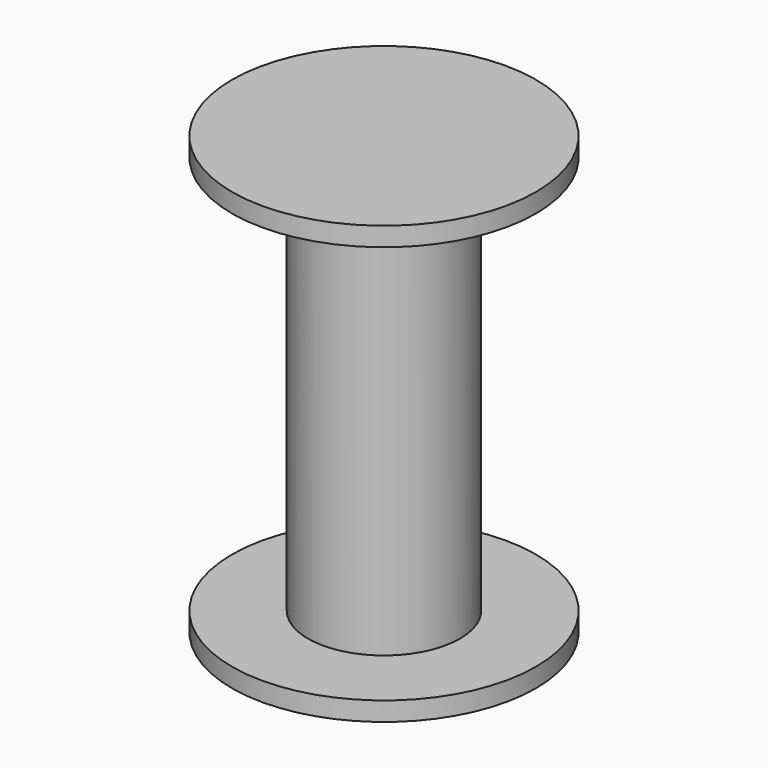
from build123d import *

# Parameters (mm, degrees)
CYLINDER003_R     = 25.4
CYLINDER003_DEPTH = 3.17
CYLINDER001_R     = 12.7
CYLINDER001_DEPTH = 69.85
CYLINDER004_R     = 25.4
CYLINDER004_DEPTH = 3.17


with BuildPart() as cylinder003:
    # Cylinder003 → Cylinder003 (new body)
    with BuildSketch(Plane.XY):
        Circle(CYLINDER003_R)
    extrude(amount=CYLINDER003_DEPTH)


with BuildPart() as cylinder001:
    # Cylinder001 → Cylinder001 (new body)
    with BuildSketch(Plane.XY):
        Circle(CYLINDER001_R)
    extrude(amount=CYLINDER001_DEPTH)


with BuildPart() as fusion:
    # Cylinder004 → Cylinder004 (new body)
    with BuildSketch(Plane.XY.offset(69.85)):
        Circle(CYLINDER004_R)
    extrude(amount=CYLINDER004_DEPTH)

    # Fusion: union Cylinder003, Cylinder001
    add(cylinder003.part)
    add(cylinder001.part)


solid = fusion.part
